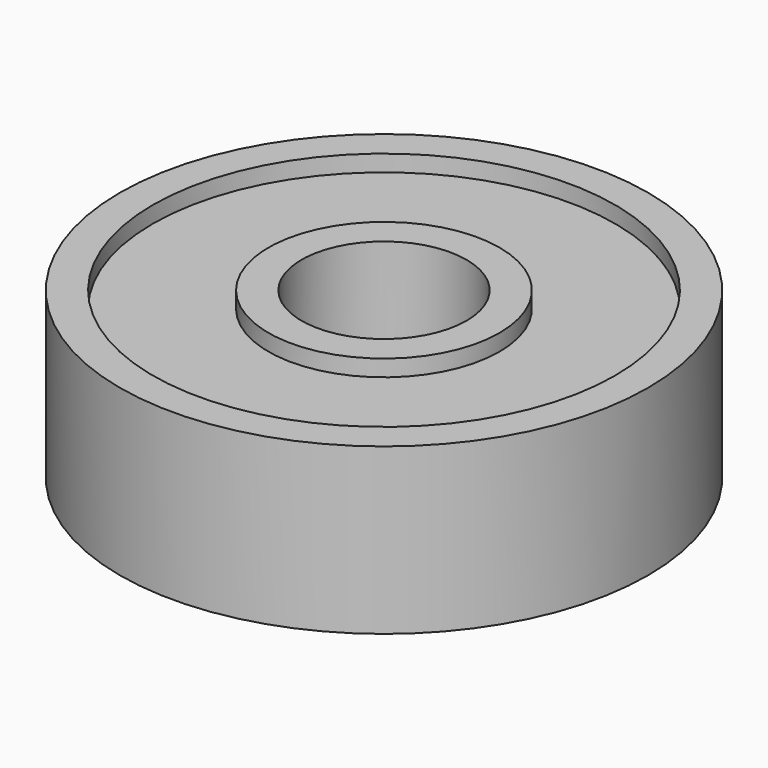
from build123d import *

# Parameters (mm, degrees)
SKETCH019_R     = 8
SKETCH019_R_2   = 2.5
PAD010_DEPTH    = 5
SKETCH020_R     = 7
SKETCH020_R_2   = 3.5
POCKET010_DEPTH = 0.5
SKETCH021_R     = 7
SKETCH021_R_2   = 3.5
POCKET011_DEPTH = 0.5


with BuildPart() as part:
    # Sketch019 → Pad010 (new body)
    with BuildSketch(Plane.XY):
        Circle(SKETCH019_R)
        Circle(SKETCH019_R_2, mode=Mode.SUBTRACT)
    extrude(amount=PAD010_DEPTH)

    # Sketch020 → Pocket010 (cut)
    with BuildSketch(Plane.XY.offset(5)):
        Circle(SKETCH020_R)
        Circle(SKETCH020_R_2, mode=Mode.SUBTRACT)
    extrude(amount=-POCKET010_DEPTH, mode=Mode.SUBTRACT)

    # Sketch021 → Pocket011 (cut)
    with BuildSketch(Plane.XY):
        Circle(SKETCH021_R)
        Circle(SKETCH021_R_2, mode=Mode.SUBTRACT)
    extrude(amount=POCKET011_DEPTH, mode=Mode.SUBTRACT)


solid = part.part
